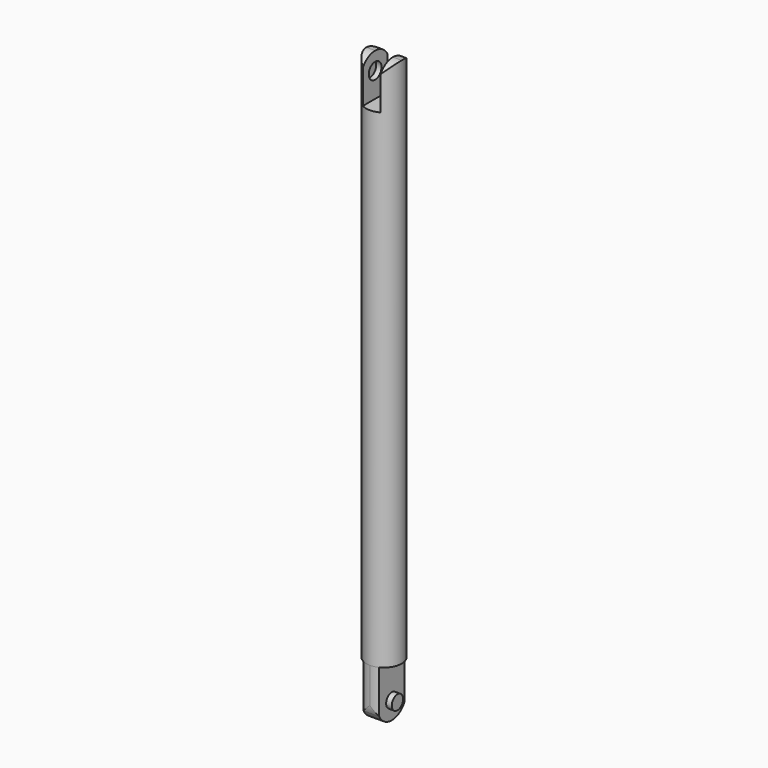
from build123d import *

# Parameters (mm, degrees)
F0_R           = 5
F1_DEPTH       = 150
F3_DEPTH       = 15
F5_DEPTH       = 25
F6_R           = 2
F7_DEPTH       = 1.6
F7_DEPTH_BACK  = 6
F9_DEPTH       = 12
F10_R          = 2.25
F11_DEPTH      = 1.5
F11_DEPTH_BACK = 6.5
F13_DEPTH      = 2.501
F13_DEPTH_BACK = 7.501


with BuildPart() as f1:
    # F0 (on Top) → F1 (new body)
    with BuildSketch(Plane.XY):
        Circle(F0_R)
    extrude(amount=F1_DEPTH)

    # F2 (on face) → F3 (join)
    with BuildSketch(Plane(origin=(0, 0, 0), x_dir=(1, 0, 0), z_dir=(0, 0, -1))):
        with BuildLine():
            ThreePointArc((2.2, 4.4899888641), (1.1291713066, 4.8708286934), (0, 5))
            ThreePointArc((0, 5), (-1.1291713066, 4.8708286934), (-2.2, 4.4899888641))
            Line((-2.2, 4.4899888641), (-2.2, -4.4899888641))
            ThreePointArc((-2.2, -4.4899888641), (-1.1291713066, -4.8708286934), (0, -5))
            ThreePointArc((0, -5), (1.1291713066, -4.8708286934), (2.2, -4.4899888641))
            Line((2.2, -4.4899888641), (2.2, 4.4899888641))
        make_face()
    extrude(amount=F3_DEPTH)

    # F4 (on face) → F5 (cut)
    with BuildSketch(Plane.YZ.offset(2.2)):
        with BuildLine():
            Line((5, -15), (5, -10))
            ThreePointArc((5, -10), (4.8708286934, -11.1291713066), (4.4899888641, -12.2))
            Line((4.4899888641, -12.2), (4.4899888641, -15))
            Line((4.4899888641, -15), (5, -15))
        make_face()
        with BuildLine():
            Line((4.4899888641, -15), (4.4899888641, -12.2))
            ThreePointArc((4.4899888641, -12.2), (2.6457513111, -14.2426406871), (0, -15))
            Line((0, -15), (4.4899888641, -15))
        make_face()
        with BuildLine():
            Line((-4.4899888641, -15), (0, -15))
            ThreePointArc((0, -15), (-2.6457513111, -14.2426406871), (-4.4899888641, -12.2))
            Line((-4.4899888641, -12.2), (-4.4899888641, -15))
        make_face()
        with BuildLine():
            ThreePointArc((-4.4899888641, -12.2), (-4.8708286934, -11.1291713066), (-5, -10))
            Line((-5, -10), (-5, -15))
            Line((-5, -15), (-4.4899888641, -15))
            Line((-4.4899888641, -15), (-4.4899888641, -12.2))
        make_face()
    extrude(amount=-F5_DEPTH, mode=Mode.SUBTRACT)

    # F6 (on face) → F7 (join, two sides)
    with BuildSketch(Plane.YZ.offset(2.2)) as f7_sk:
        with Locations((0, -10)):
            Circle(F6_R)
    extrude(amount=F7_DEPTH)
    extrude(f7_sk.sketch, amount=-F7_DEPTH_BACK)

    # F8 (on face) → F9 (cut)
    with BuildSketch(Plane.XY.offset(150)):
        with BuildLine():
            ThreePointArc((2.5, 4.3301270189), (1.2940952255, 4.8296291314), (0, 5))
            ThreePointArc((0, 5), (-1.2940952255, 4.8296291314), (-2.5, 4.3301270189))
            Line((-2.5, 4.3301270189), (-2.5, -4.3301270189))
            ThreePointArc((-2.5, -4.3301270189), (-1.2940952255, -4.8296291314), (0, -5))
            ThreePointArc((0, -5), (1.2940952255, -4.8296291314), (2.5, -4.3301270189))
            Line((2.5, -4.3301270189), (2.5, 4.3301270189))
        make_face()
    extrude(amount=-F9_DEPTH, mode=Mode.SUBTRACT)

    # F10 (on face) → F11 (cut, two sides)
    with BuildSketch(Plane.YZ.offset(-2.5)) as f11_sk:
        with Locations((0, 145)):
            Circle(F10_R)
    extrude(amount=-F11_DEPTH, mode=Mode.SUBTRACT)
    extrude(f11_sk.sketch, amount=F11_DEPTH_BACK, mode=Mode.SUBTRACT)

    # F12 (on face) → F13 (cut, two sides)
    with BuildSketch(Plane.YZ.offset(-2.5)) as f13_sk:
        with BuildLine():
            ThreePointArc((0, 150), (2.5, 149.3301270189), (4.3301270189, 147.5))
            Line((4.3301270189, 147.5), (4.3301270189, 150))
            Line((4.3301270189, 150), (0, 150))
        make_face()
        with BuildLine():
            ThreePointArc((-4.3301270189, 147.5), (-2.5, 149.3301270189), (0, 150))
            Line((0, 150), (-4.3301270189, 150))
            Line((-4.3301270189, 150), (-4.3301270189, 147.5))
        make_face()
    extrude(amount=-F13_DEPTH, mode=Mode.SUBTRACT)
    extrude(f13_sk.sketch, amount=F13_DEPTH_BACK, mode=Mode.SUBTRACT)


solid = f1.part
